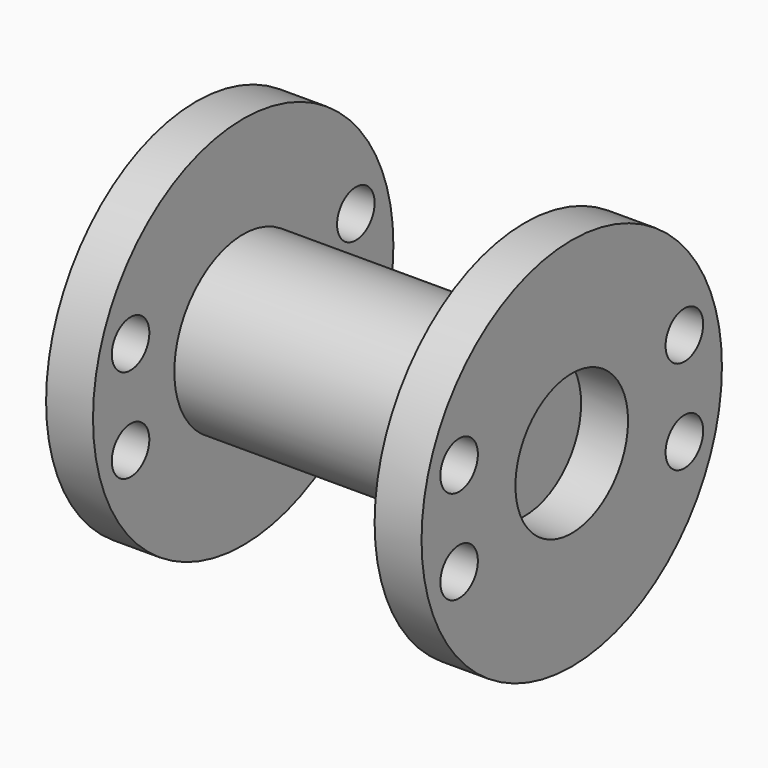
from build123d import *

# Parameters (mm, degrees)
F0_R      = 23.300807
F1_DEPTH  = 76.2
F3_R      = 50.8
F3_R_2    = 23.300807
F4_DEPTH  = 12.7
F6_R      = 50.8
F6_R_2    = 23.300807
F7_DEPTH  = 12.7
F8_R      = 23.300807
F8_R_2    = 19.05
F9_DEPTH  = 12.7
F10_R     = 23.300807
F10_R_2   = 19.05
F11_DEPTH = 12.7
F12_R     = 6.35
F13_DEPTH = 2540


with BuildPart() as f1:
    # F0 (on Right) → F1 (new body)
    with BuildSketch(Plane.YZ):
        Circle(F0_R)
    extrude(amount=F1_DEPTH)



with BuildPart() as f4:
    # F3 (on face) → F4 (new body)
    with BuildSketch(Plane(origin=(0, 0, 0), x_dir=(0, -1, 0), z_dir=(-1, 0, 0))):
        Circle(F3_R)
        Circle(F3_R_2, mode=Mode.SUBTRACT)
    extrude(amount=F4_DEPTH)


with BuildPart() as f7:
    # F6 (on face) → F7 (new body)
    with BuildSketch(Plane.YZ.offset(76.2)):
        Circle(F6_R)
        Circle(F6_R_2, mode=Mode.SUBTRACT)
    extrude(amount=F7_DEPTH)


with BuildPart() as f1_1:
    add(f1.part)

    add(f7.part)  # F9 merges F7
    # F8 (on face) → F9 (join)
    with BuildSketch(Plane.YZ.offset(76.2)):
        Circle(F8_R)
        Circle(F8_R_2, mode=Mode.SUBTRACT)
    extrude(amount=F9_DEPTH)


    add(f4.part)  # F11 merges F4
    # F10 (on face) → F11 (join)
    with BuildSketch(Plane(origin=(0, 0, 0), x_dir=(0, -1, 0), z_dir=(-1, 0, 0))):
        Circle(F10_R)
        Circle(F10_R_2, mode=Mode.SUBTRACT)
    extrude(amount=F11_DEPTH)

    # F12 (on face) → F13 (cut)
    with BuildSketch(Plane(origin=(-12.7, 0, 0), x_dir=(0, -1, 0), z_dir=(-1, 0, 0))):
        with Locations((-38.1, 12.7)):
            Circle(F12_R)
        with Locations((-38.1, -12.7)):
            Circle(F12_R)
        with Locations((38.1, -12.7)):
            Circle(F12_R)
        with Locations((38.1, 12.7)):
            Circle(F12_R)
    extrude(amount=-F13_DEPTH, mode=Mode.SUBTRACT)


solid = f1_1.part
